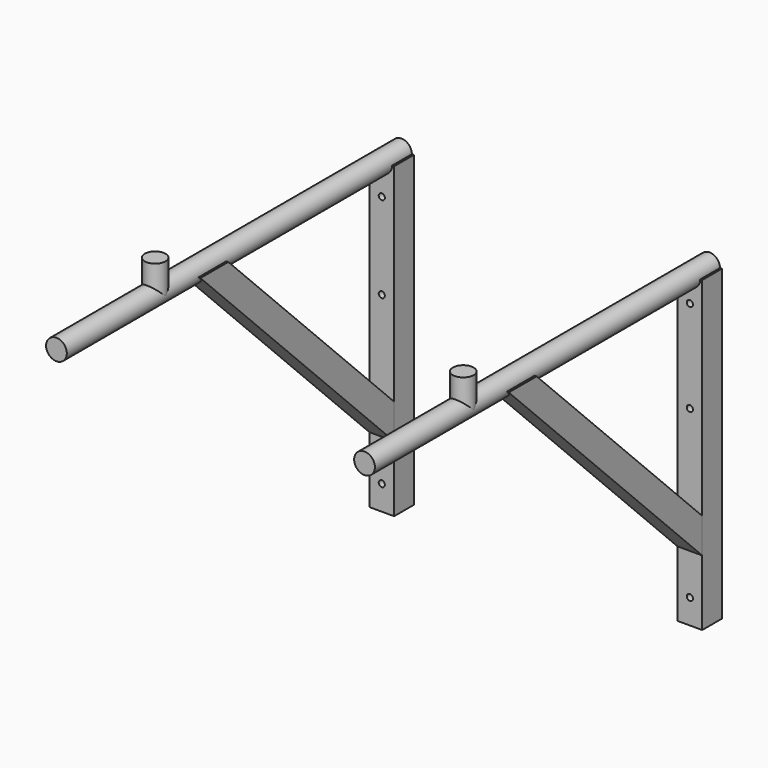
from build123d import *

# Parameters (mm, degrees)
F0_R      = 16.85
F1_DEPTH  = 700
F2_R      = 16.85
F3_DEPTH  = 50
F4_W      = 40
F4_H      = 40
F5_DEPTH  = 500
F7_DEPTH  = 40
F9_DEPTH  = 40
F10_R     = 5
F11_DEPTH = 40.0010001
F12_R     = 5
F13_DEPTH = 40.0010001


with BuildPart() as f1:
    # F0 (on Front) → F1 (new body)
    with BuildSketch(Plane.XZ):
        with Locations((-250, 0)):
            Circle(F0_R)
    extrude(amount=F1_DEPTH)

    # F2 (on Top) → F3 (join)
    with BuildSketch(Plane.XY):
        with Locations((-250.0394582748, -499.7093975544)):
            Circle(F2_R)
    extrude(amount=F3_DEPTH)


with BuildPart() as f1b:
    # F0 (on Front) → F1, piece 2 (new body)
    with BuildSketch(Plane.XZ):
        with Locations((250, 0)):
            Circle(F0_R)
    extrude(amount=F1_DEPTH)


with BuildPart() as f3:
    # F2 (on Top) → F3, piece 2 (new body)
    with BuildSketch(Plane.XY):
        with Locations((249.9605417252, -499.7093975544)):
            Circle(F2_R)
    extrude(amount=F3_DEPTH)


with BuildPart() as f5:
    # F4 (on Top) → F5 (new body)
    with BuildSketch(Plane.XY):
        with Locations((-250, -20)):
            Rectangle(F4_W, F4_H)
    extrude(amount=-F5_DEPTH)

    # F10 (on face) → F11 (cut, through all)
    with BuildSketch(Plane.XZ.offset(40)):
        with Locations((-250, -50)):
            Circle(F10_R)
        with Locations((-250, -190)):
            Circle(F10_R)
        with Locations((-250, -460)):
            Circle(F10_R)
    extrude(amount=-F11_DEPTH, mode=Mode.SUBTRACT)


with BuildPart() as f5b:
    # F4 (on Top) → F5, piece 2 (new body)
    with BuildSketch(Plane.XY):
        with Locations((250, -20)):
            Rectangle(F4_W, F4_H)
    extrude(amount=-F5_DEPTH)

    # F12 (on face) → F13 (cut, through all)
    with BuildSketch(Plane.XZ.offset(40)):
        with Locations((250, -40)):
            Circle(F12_R)
        with Locations((250, -190)):
            Circle(F12_R)
        with Locations((250, -460)):
            Circle(F12_R)
    extrude(amount=-F13_DEPTH, mode=Mode.SUBTRACT)


with BuildPart() as f7:
    # F6 (on face) → F7 (new body)
    with BuildSketch(Plane(origin=(-270, 0, 0), x_dir=(0, -1, 0), z_dir=(-1, 0, 0))):
        Polygon((376.3557066773, 0), (40, -336.3557066773), (40, -392.9242491722), (432.9242491722, 0), align=None)
    extrude(amount=-F7_DEPTH)


with BuildPart() as f9:
    # F8 (on face) → F9 (new body)
    with BuildSketch(Plane.YZ.offset(270)):
        Polygon((-40, -393.4637606144), (-40, -336.8952181195), (-375.8757210636, -1.0194970559), (-432.4442635585, -1.0194970559), align=None)
    extrude(amount=-F9_DEPTH)


solid = Compound([f1.part, f1b.part, f3.part, f5.part, f5b.part, f7.part, f9.part])
